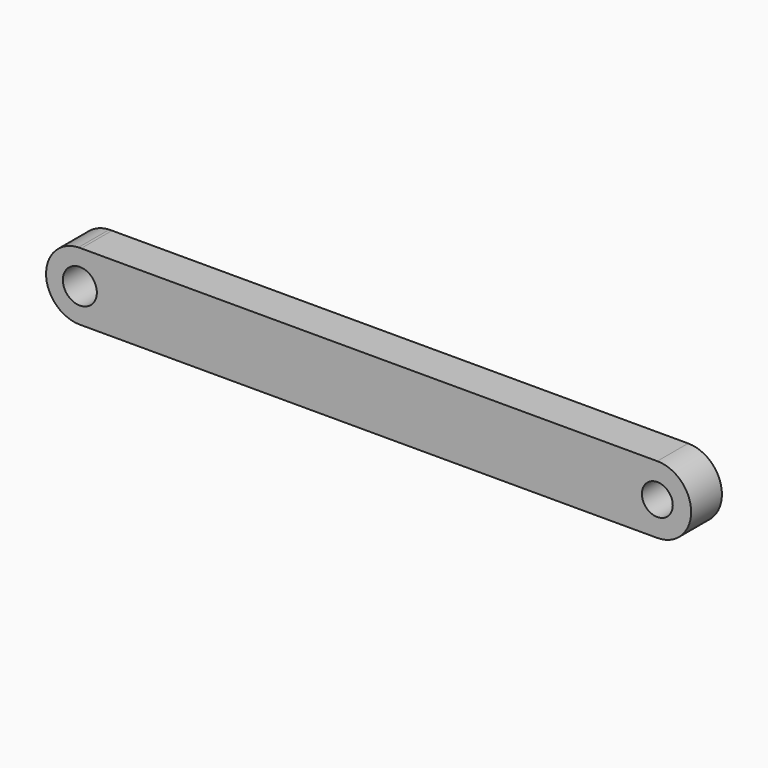
from build123d import *

# Parameters (mm, degrees)
F0_R     = 2.5019
F0_R_2   = 2.271531
F1_DEPTH = 5.6642


with BuildPart() as f1:
    # F0 (on Front) → F1 (new body)
    with BuildSketch(Plane.XZ):
        with BuildLine():
            Line((-30.043208, 18.232305), (-29.647344, 18.232323))
            ThreePointArc((-29.647344, 18.232323), (-29.845277, 18.236254), (-30.043208, 18.232305))
        make_face()
        with BuildLine():
            Line((55.126277, 18.236254), (-29.647344, 18.232323))
            Line((-29.647344, 18.232323), (-30.043208, 18.232305))
            ThreePointArc((-30.043208, 18.232305), (-34.818182, 13.163029), (-29.845046, 8.288007))
            Line((-29.845046, 8.288007), (55.126277, 8.288007))
            ThreePointArc((55.126277, 8.288007), (60.100631, 13.26213), (55.126277, 18.236254))
        make_face()
        with Locations((-29.845046, 13.26213)):
            Circle(F0_R, mode=Mode.SUBTRACT)
        with Locations((55.126508, 13.26213)):
            Circle(F0_R_2, mode=Mode.SUBTRACT)
    extrude(amount=F1_DEPTH)


solid = f1.part
